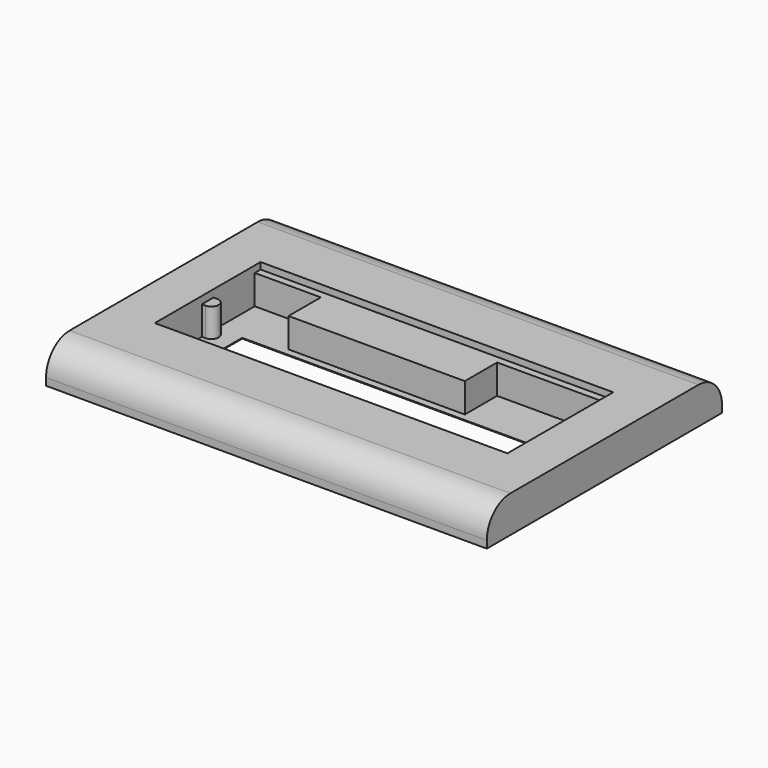
from build123d import *

# Parameters (mm, degrees)
F0_W      = 600
F0_H      = 400
F1_DEPTH  = 50
F2_R      = 40
F3_W      = 480
F3_H      = 160
F4_DEPTH  = 49
F5_W      = 480
F5_H      = 10
F6_DEPTH  = 9
F7_T      = -1
F8_W      = 410
F8_H      = 85
F9_DEPTH  = 1.001
F10_W     = 240
F10_H     = 55
F11_DEPTH = 40
F13_DEPTH = 39


with BuildPart() as f1:
    # F0 (on Top) → F1 (new body)
    with BuildSketch(Plane.XY):
        Rectangle(F0_W, F0_H)
    extrude(amount=F1_DEPTH)

    # F2
    f2_edges = [f1.edges().sort_by_distance(p)[0] for p in [
        (0, -200, 50),
        (0, 200, 50),
    ]]
    fillet(f2_edges, radius=F2_R)

    # F3 (on face) → F4 (cut)
    with BuildSketch(Plane.XY.offset(50)):
        Rectangle(F3_W, F3_H)
    extrude(amount=-F4_DEPTH, mode=Mode.SUBTRACT)

    # F5 (on face) → F6 (cut)
    with BuildSketch(Plane.XY.offset(50)):
        with Locations((0, 85)):
            Rectangle(F5_W, F5_H)
        with Locations((0, -85)):
            Rectangle(F5_W, F5_H)
    extrude(amount=-F6_DEPTH, mode=Mode.SUBTRACT)

    # F7
    f7_openings = [f1.faces().sort_by_distance(p)[0] for p in [
        (0, 0, 0),
    ]]
    offset(amount=F7_T, openings=f7_openings, kind=Kind.INTERSECTION)

    # F8 (on face) → F9 (cut, through all)
    with BuildSketch(Plane.XY.offset(1)):
        with Locations((0, -27.5)):
            Rectangle(F8_W, F8_H)
    extrude(amount=-F9_DEPTH, mode=Mode.SUBTRACT)

    # F10 (on face) → F11 (join)
    with BuildSketch(Plane.XY.offset(1)):
        with Locations((-30, 52.5)):
            Rectangle(F10_W, F10_H)
    extrude(amount=F11_DEPTH)

    # F12 (on face) → F13 (join)
    with BuildSketch(Plane.XY.offset(1)):
        with BuildLine():
            Line((-240, -10), (-235, -10))
            ThreePointArc((-235, -10), (-225, 0), (-235, 10))
            Line((-235, 10), (-240, 10))
            Line((-240, 10), (-240, -10))
        make_face()
    extrude(amount=F13_DEPTH)


solid = f1.part
